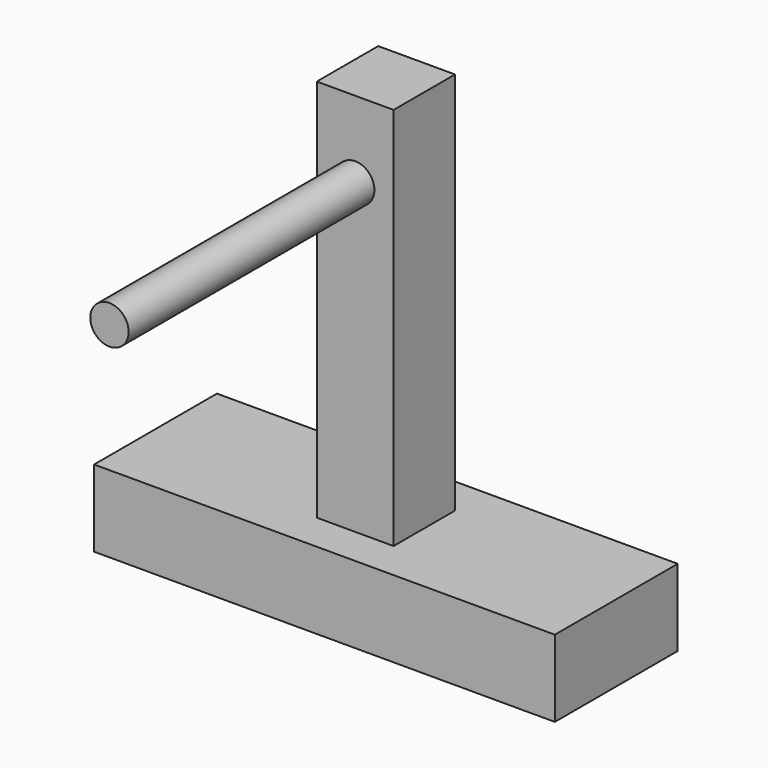
from build123d import *

# Parameters (mm, degrees)
F0_W     = 76.2
F0_H     = 25.4
F1_DEPTH = 12.7
F2_W     = 12.7
F2_H     = 12.7
F3_DEPTH = 63.5
F4_R     = 3.175
F5_DEPTH = 50.8


with BuildPart() as f1:
    # F0 (on Top) → F1 (new body)
    with BuildSketch(Plane.XY):
        Rectangle(F0_W, F0_H)
    extrude(amount=F1_DEPTH)

    # F2 (on face) → F3 (join)
    with BuildSketch(Plane.XY.offset(12.7)):
        Rectangle(F2_W, F2_H)
    extrude(amount=F3_DEPTH)

    # F4 (on face) → F5 (join)
    with BuildSketch(Plane.XZ.offset(6.35)):
        with Locations((0, 63.5)):
            Circle(F4_R)
    extrude(amount=F5_DEPTH)


solid = f1.part
